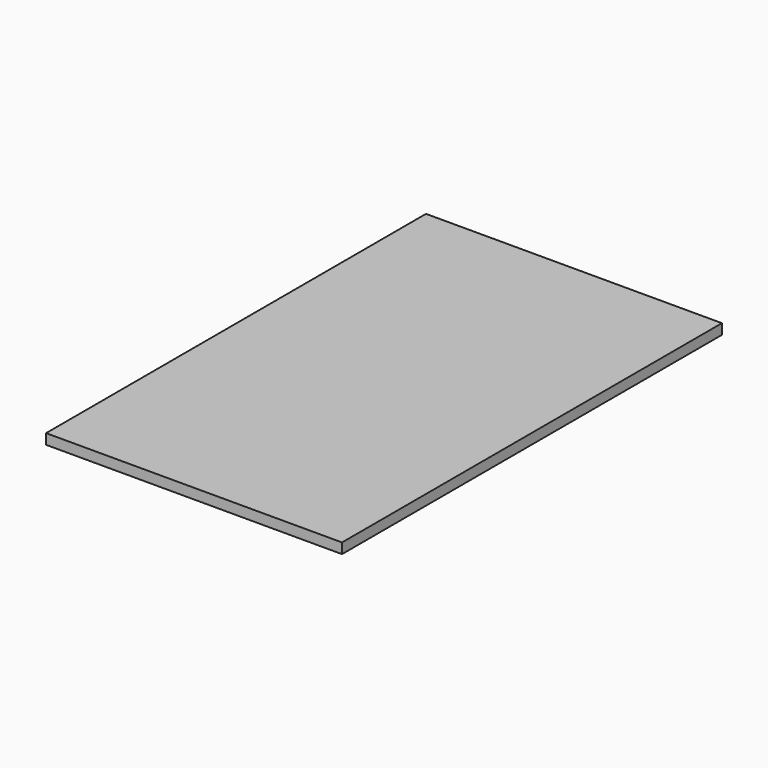
from build123d import *

# Parameters (mm, degrees)
F0_W     = 546.1
F0_H     = 19.05
F1_DEPTH = 438.15
F2_R     = 3.175
F3_DEPTH = 12.7


with BuildPart() as f1:
    # F0 (on Front) → F1 (new body, symmetric)
    with BuildSketch(Plane.XZ):
        Rectangle(F0_W, F0_H)
    extrude(amount=F1_DEPTH, both=True)

    # F2 (on face) → F3 (cut)
    with BuildSketch(Plane(origin=(0, 0, -9.525), x_dir=(1, 0, 0), z_dir=(0, 0, -1))):
        with Locations((255.905, 421.005)):
            Circle(F2_R)
        with Locations((257.175, -422.275)):
            Circle(F2_R)
        with Locations((-257.175, -422.275)):
            Circle(F2_R)
        with Locations((-257.175, 422.275)):
            Circle(F2_R)
    extrude(amount=-F3_DEPTH, mode=Mode.SUBTRACT)


solid = f1.part
